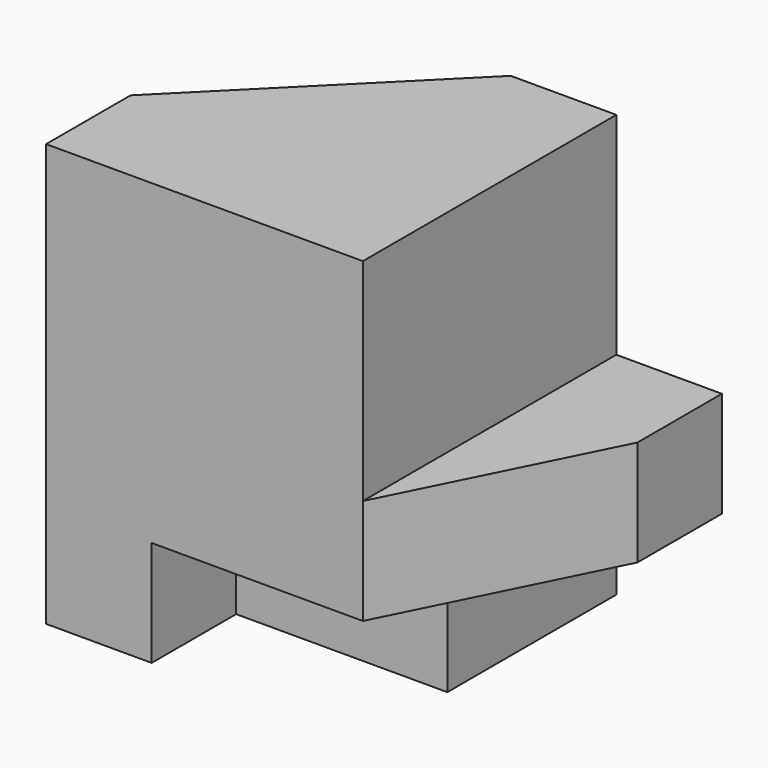
from build123d import *

# Parameters (mm, degrees)
F0_W      = 40
F0_H      = 40
F1_DEPTH  = 30
F2_W      = 10
F2_H      = 20
F2_H_2    = 10
F3_DEPTH  = 30
F4_W      = 20
F4_H      = 10
F5_DEPTH  = 10
F7_DEPTH  = 10
F9_DEPTH  = 30
F10_ANGLE = 90


with BuildPart() as f1:
    # F0 (on Top) → F1 (new body)
    with BuildSketch(Plane.XY):
        Rectangle(F0_W, F0_H)
    extrude(amount=F1_DEPTH)

    # F2 (on face) → F3 (cut)
    with BuildSketch(Plane.XY.offset(30)):
        with Locations((15, 10)):
            Rectangle(F2_W, F2_H)
        with Locations((15, -15)):
            Rectangle(F2_W, F2_H_2)
    extrude(amount=-F3_DEPTH, mode=Mode.SUBTRACT)

    # F4 (on face) → F5 (cut)
    with BuildSketch(Plane.XZ.offset(20)):
        with Locations((0, 25)):
            Rectangle(F4_W, F4_H)
    extrude(amount=-F5_DEPTH, mode=Mode.SUBTRACT)

    # F6 (on face) → F7 (cut)
    with BuildSketch(Plane.XZ.offset(10)):
        Polygon((20, 10), (20, 30), (10, 30), align=None)
    extrude(amount=-F7_DEPTH, mode=Mode.SUBTRACT)

    # F8 (on face) → F9 (cut)
    with BuildSketch(Plane(origin=(0, 20, 0), x_dir=(-1, 0, 0), z_dir=(0, 1, 0))):
        Polygon((0, 0), (20, 0), (20, 20), align=None)
    extrude(amount=-F9_DEPTH, mode=Mode.SUBTRACT)


with BuildPart() as f1_1:
    # F10: moved
    add(f1.part.rotate(Axis((-5, -20, 0), (1, 0, 0)), F10_ANGLE))


solid = f1_1.part
